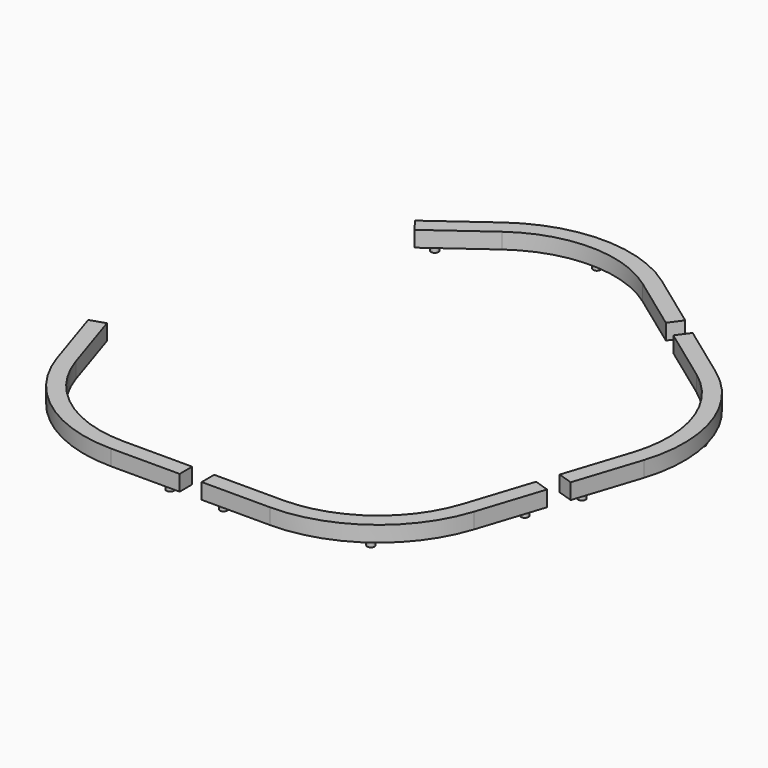
from build123d import *

# Parameters (mm, degrees)
PAD007_DEPTH             = 12.8
SKETCH026_R              = 3.05
PAD008_DEPTH             = 5.2
SKETCH027_R              = 3.05
PAD009_DEPTH             = 5.2
SKETCH028_R              = 3.05
PAD010_DEPTH             = 5.2
CLONE013_PLACEMENT_ANGLE = 72
ARRAY003_COUNT           = 4
ARRAY003_ANGLE           = 216


with BuildPart() as array003:
    # Sketch025 → Pad007 (new body)
    with BuildSketch(Plane.XY):
        with BuildLine():
            Line((64.9839392466, -187.2), (9, -187.2))
            Line((9, -187.2), (9, -200))
            Line((9, -200), (64.9839392466, -200))
            ThreePointArc((64.9839392466, -200), (129.9678784932, -178.8854382), (170.1301616704, -123.60679775))
            Line((187.4301503097, -70.3629075216), (170.1301616704, -123.60679775))
            Line((187.4301503097, -70.3629075216), (175.2566269011, -66.4074899936))
            Line((157.9566382618, -119.651380222), (175.2566269011, -66.4074899936))
            ThreePointArc((64.9839392466, -187.2), (122.4442272638, -168.530020672), (157.9566382618, -119.651380222))
        make_face()
    extrude(amount=PAD007_DEPTH)

    # Sketch026 (on Face9 of Pad007) → Pad008 (join)
    with BuildSketch(Plane(origin=(0, 0, 0), x_dir=(1, 0, 0), z_dir=(0, 0, -1))):
        with Locations((21.8, 193.6)):
            Circle(SKETCH026_R)
    extrude(amount=PAD008_DEPTH)

    # Sketch027 (on Face4 of Pad008) → Pad009 (join)
    with BuildSketch(Plane(origin=(0, 0, 0), x_dir=(1, 0, 0), z_dir=(0, 0, -1))):
        with Locations((126.2060528785, 173.707729436)):
            Circle(SKETCH027_R)
    extrude(amount=PAD009_DEPTH)

    # Sketch028 (on Face4 of Pad009) → Pad010 (join)
    with BuildSketch(Plane(origin=(0, 0, 0), x_dir=(1, 0, 0), z_dir=(0, 0, -1))):
        with Locations((177.3879710774, 80.5587221662)):
            Circle(SKETCH028_R)
    extrude(amount=PAD010_DEPTH)


with BuildPart() as array003_1:
    # Clone013 placement: moved
    add(array003.part.rotate(Axis((0, 0, 0), (0, 0, -1)), CLONE013_PLACEMENT_ANGLE))


with BuildPart() as array003_copy1:
    # Array003: instance of Array003
    add(array003_1.part.rotate(Axis((0, 0, 0), (0, 0, 1)), 1 * ARRAY003_ANGLE / (ARRAY003_COUNT - 1)))


with BuildPart() as array003_copy2:
    # Array003: instance of Array003
    add(array003_1.part.rotate(Axis((0, 0, 0), (0, 0, 1)), 2 * ARRAY003_ANGLE / (ARRAY003_COUNT - 1)))


with BuildPart() as array003_copy3:
    # Array003: instance of Array003
    add(array003_1.part.rotate(Axis((0, 0, 0), (0, 0, 1)), 3 * ARRAY003_ANGLE / (ARRAY003_COUNT - 1)))


with BuildPart() as array003_2:
    # Array003 placement: moved
    add(array003_1.part.moved(Location((0, 0, 146.066))))


with BuildPart() as array003_copy1_1:
    # Array003 placement: moved
    add(array003_copy1.part.moved(Location((0, 0, 146.066))))


with BuildPart() as array003_copy2_1:
    # Array003 placement: moved
    add(array003_copy2.part.moved(Location((0, 0, 146.066))))


with BuildPart() as array003_copy3_1:
    # Array003 placement: moved
    add(array003_copy3.part.moved(Location((0, 0, 146.066))))


solid = Compound([array003_2.part, array003_copy1_1.part, array003_copy2_1.part, array003_copy3_1.part])
